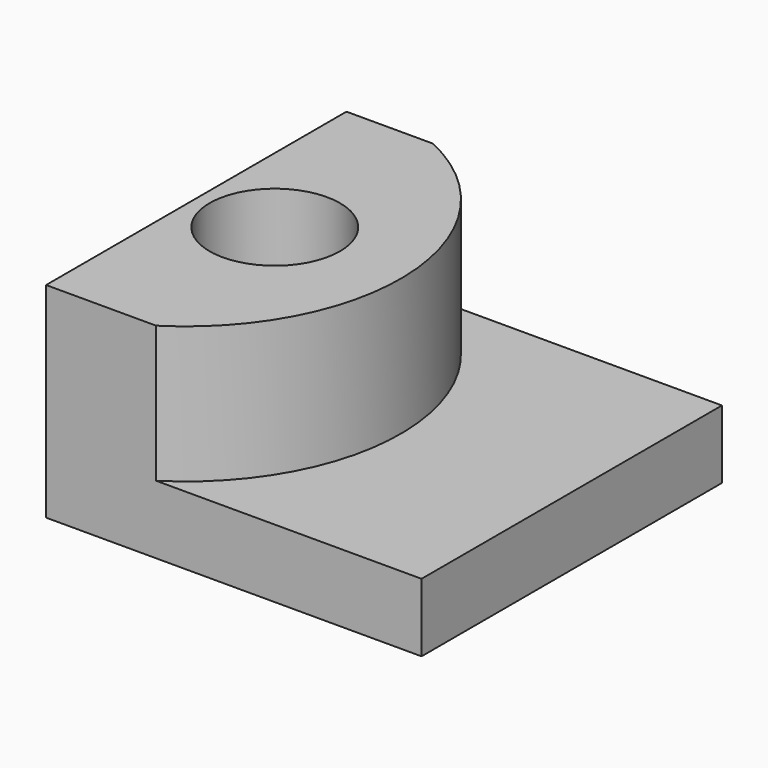
from build123d import *

# Parameters (mm, degrees)
F0_W     = 69.85
F0_H     = 38.1
F1_DEPTH = 69.85
F3_DEPTH = 25.4
F4_R     = 12.130263
F5_DEPTH = 38.1


with BuildPart() as f1:
    # F0 (on Front) → F1 (new body)
    with BuildSketch(Plane.XZ):
        with Locations((34.925, 19.05)):
            Rectangle(F0_W, F0_H)
    extrude(amount=F1_DEPTH)

    # F2 (on face) → F3 (cut)
    with BuildSketch(Plane.XY.offset(38.1)):
        with BuildLine():
            ThreePointArc((16.126048, 0), (38.919005, -33.643201), (20.467674, -69.85))
            Line((20.467674, -69.85), (69.85, -69.85))
            Line((69.85, -69.85), (69.85, 0))
            Line((69.85, 0), (16.126048, 0))
        make_face()
    extrude(amount=-F3_DEPTH, mode=Mode.SUBTRACT)

    # F4 (on face) → F5 (cut)
    with BuildSketch(Plane.XY.offset(38.1)):
        with Locations((14.575467, -34.888081)):
            Circle(F4_R)
    extrude(amount=-F5_DEPTH, mode=Mode.SUBTRACT)


solid = f1.part
